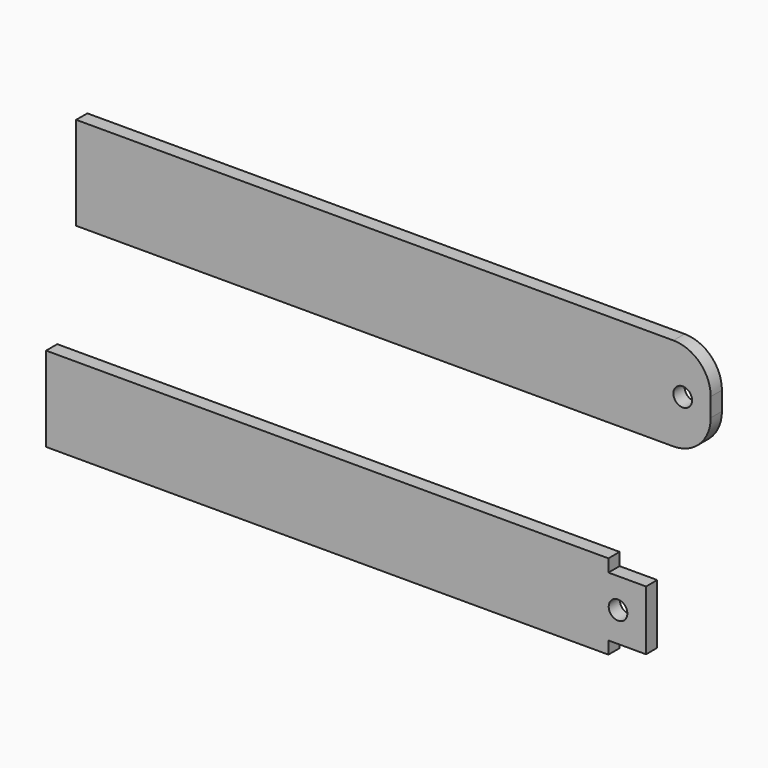
from build123d import *

# Parameters (mm, degrees)
F0_W     = 408.2542
F0_H     = 57.7088
F1_DEPTH = 9.525
F2_R     = 6.35
F3_DEPTH = 9.525
F4_W     = 25.6032
F4_H     = 8.5344
F5_DEPTH = 25.4
F6_DEPTH = 25.4
F7_R     = 6.35
F8_DEPTH = 9.525


with BuildPart() as f1:
    # F0 (on Front) → F1 (new body)
    with BuildSketch(Plane.XZ):
        with Locations((12.960193, -24.905058)):
            Rectangle(F0_W, F0_H)
    extrude(amount=F1_DEPTH)

    # F2 (on face) → F3 (cut)
    with BuildSketch(Plane.XZ.offset(9.525)):
        with Locations((198.037293, -24.905058)):
            Circle(F2_R)
    extrude(amount=-F3_DEPTH, mode=Mode.SUBTRACT)

    # F4 (on face) → F5 (cut)
    with BuildSketch(Plane.XZ.offset(9.525)):
        with Locations((204.285693, -0.317858)):
            Rectangle(F4_W, F4_H)
    extrude(amount=-F5_DEPTH, mode=Mode.SUBTRACT)

    # F4 (on face) → F6 (cut)
    with BuildSketch(Plane.XZ.offset(9.525)):
        with Locations((204.285693, -49.492258)):
            Rectangle(F4_W, F4_H)
    extrude(amount=-F6_DEPTH, mode=Mode.SUBTRACT)


with BuildPart() as f8:
    # F7 (on Front) → F8 (new body)
    with BuildSketch(Plane.XZ):
        with BuildLine():
            Line((235.695731, 148.86389), (-170.704269, 148.86389))
            Line((-170.704269, 148.86389), (-170.704269, 85.36389))
            Line((-170.704269, 85.36389), (235.695731, 85.36389))
            ThreePointArc((235.695731, 85.36389), (253.656243, 92.803378), (261.095731, 110.76389))
            Line((261.095731, 110.76389), (261.095731, 123.46389))
            ThreePointArc((261.095731, 123.46389), (253.656243, 141.424403), (235.695731, 148.86389))
        make_face()
        with Locations((242.045731, 117.11389)):
            Circle(F7_R, mode=Mode.SUBTRACT)
    extrude(amount=F8_DEPTH)


solid = Compound([f1.part, f8.part])
